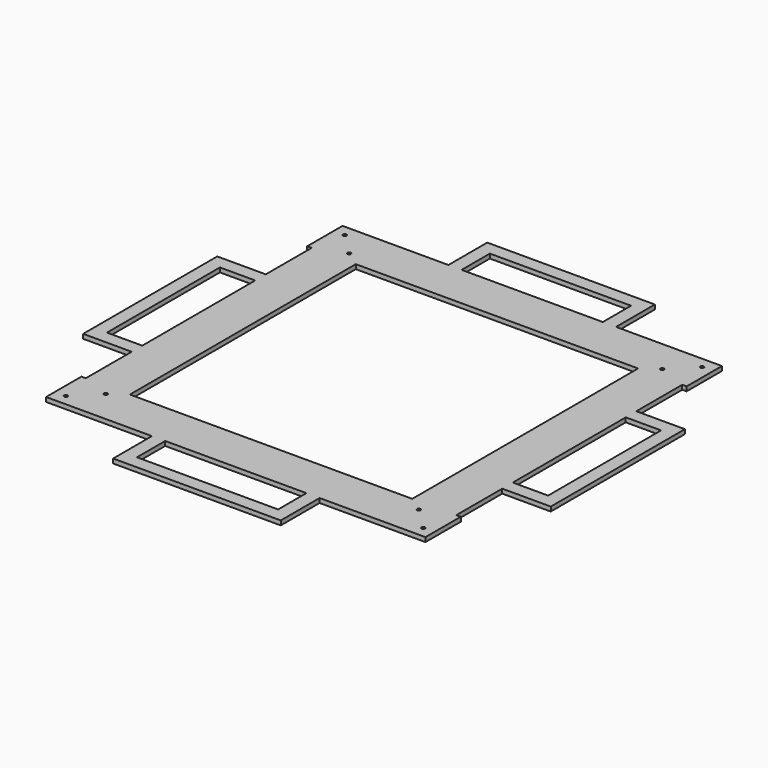
from build123d import *

# Parameters (mm, degrees)
F0_R     = 1.2573
F1_DEPTH = 3.175


with BuildPart() as f1:
    # F0 (on Top) → F1 (new body)
    with BuildSketch(Plane.XY):
        with BuildLine():
            Line((-104.775, 133.35), (-104.775, 101.6))
            Line((-104.775, 101.6), (-111.823455, 108.648455))
            ThreePointArc((-111.823455, 108.648455), (-113.601545, 108.648455), (-113.601545, 110.426545))
            Line((-113.601545, 110.426545), (-120.65, 117.475))
            Line((-120.65, 117.475), (-127.698455, 124.523455))
            ThreePointArc((-127.698455, 124.523455), (-129.476545, 124.523455), (-129.476545, 126.301545))
            Line((-129.476545, 126.301545), (-136.525, 133.35))
            Line((-136.525, 133.35), (-136.525, 101.6))
            Line((-136.525, 101.6), (-133.35, 101.6))
            Line((-133.35, 101.6), (-133.35, 60.325))
            Line((-133.35, 60.325), (-133.35, 50.8))
            Line((-133.35, 50.8), (-133.35, -50.8))
            Line((-133.35, -50.8), (-133.35, -60.325))
            Line((-133.35, -60.325), (-133.35, -101.6))
            Line((-133.35, -101.6), (-136.525, -101.6))
            Line((-136.525, -101.6), (-136.525, -133.35))
            Line((-136.525, -133.35), (-60.325, -133.35))
            Line((-60.325, -133.35), (-50.8, -133.35))
            Line((-50.8, -133.35), (50.8, -133.35))
            Line((50.8, -133.35), (60.325, -133.35))
            Line((60.325, -133.35), (136.525, -133.35))
            Line((136.525, -133.35), (136.525, -101.6))
            Line((136.525, -101.6), (133.35, -101.6))
            Line((133.35, -101.6), (133.35, -60.325))
            Line((133.35, -60.325), (133.35, -50.8))
            Line((133.35, -50.8), (133.35, 0))
            Line((133.35, 0), (133.35, 50.8))
            Line((133.35, 50.8), (133.35, 60.325))
            Line((133.35, 60.325), (133.35, 101.6))
            Line((133.35, 101.6), (136.525, 101.6))
            Line((136.525, 101.6), (136.525, 133.35))
            Line((136.525, 133.35), (104.775, 133.35))
            Line((104.775, 133.35), (101.6, 133.35))
            Line((101.6, 133.35), (60.325, 133.35))
            Line((60.325, 133.35), (50.8, 133.35))
            Line((50.8, 133.35), (0, 133.35))
            Line((0, 133.35), (-50.8, 133.35))
            Line((-50.8, 133.35), (-60.325, 133.35))
            Line((-60.325, 133.35), (-101.6, 133.35))
            Line((-101.6, 133.35), (-104.775, 133.35))
        make_face()
        with Locations((-128.5875, -125.4125)):
            Circle(F0_R, mode=Mode.SUBTRACT)
        with Locations((-112.7125, -109.5375)):
            Circle(F0_R, mode=Mode.SUBTRACT)
        with Locations((112.7125, -109.5375)):
            Circle(F0_R, mode=Mode.SUBTRACT)
        with Locations((128.5875, -125.4125)):
            Circle(F0_R, mode=Mode.SUBTRACT)
        Polygon((0, 101.6), (101.6, 101.6), (101.6, 0), (101.6, -101.6), (0, -101.6), (-101.6, -101.6), (-101.6, 0), (-101.6, 101.6), align=None, mode=Mode.SUBTRACT)
        with Locations((112.7125, 109.5375)):
            Circle(F0_R, mode=Mode.SUBTRACT)
        with Locations((128.5875, 125.4125)):
            Circle(F0_R, mode=Mode.SUBTRACT)
        with BuildLine():
            Line((-111.823455, 108.648455), (-104.775, 101.6))
            Line((-104.775, 101.6), (-104.775, 133.35))
            Line((-104.775, 133.35), (-136.525, 133.35))
            Line((-136.525, 133.35), (-129.476545, 126.301545))
            ThreePointArc((-129.476545, 126.301545), (-128.106352, 126.574094), (-127.3302, 125.4125))
            ThreePointArc((-127.3302, 125.4125), (-127.425906, 124.931352), (-127.698455, 124.523455))
            Line((-127.698455, 124.523455), (-120.65, 117.475))
            Line((-120.65, 117.475), (-113.601545, 110.426545))
            ThreePointArc((-113.601545, 110.426545), (-112.231352, 110.699094), (-111.4552, 109.5375))
            ThreePointArc((-111.4552, 109.5375), (-111.550906, 109.056352), (-111.823455, 108.648455))
        make_face()
        Polygon((-60.325, 168.275), (-60.325, 133.35), (-50.8, 133.35), (-50.8, 158.75), (0, 158.75), (50.8, 158.75), (50.8, 133.35), (60.325, 133.35), (60.325, 168.275), (0, 168.275), align=None)
        Polygon((-133.35, 50.8), (-133.35, 60.325), (-168.275, 60.325), (-168.275, 0), (-168.275, -60.325), (-133.35, -60.325), (-133.35, -50.8), (-158.75, -50.8), (-158.75, 0), (-158.75, 50.8), align=None)
        Polygon((-50.8, -133.35), (-60.325, -133.35), (-60.325, -168.275), (0, -168.275), (60.325, -168.275), (60.325, -133.35), (50.8, -133.35), (50.8, -158.75), (0, -158.75), (-50.8, -158.75), align=None)
        Polygon((168.275, 60.325), (133.35, 60.325), (133.35, 50.8), (158.75, 50.8), (158.75, 0), (158.75, -50.8), (133.35, -50.8), (133.35, -60.325), (168.275, -60.325), (168.275, 0), align=None)
    extrude(amount=F1_DEPTH)


solid = f1.part
